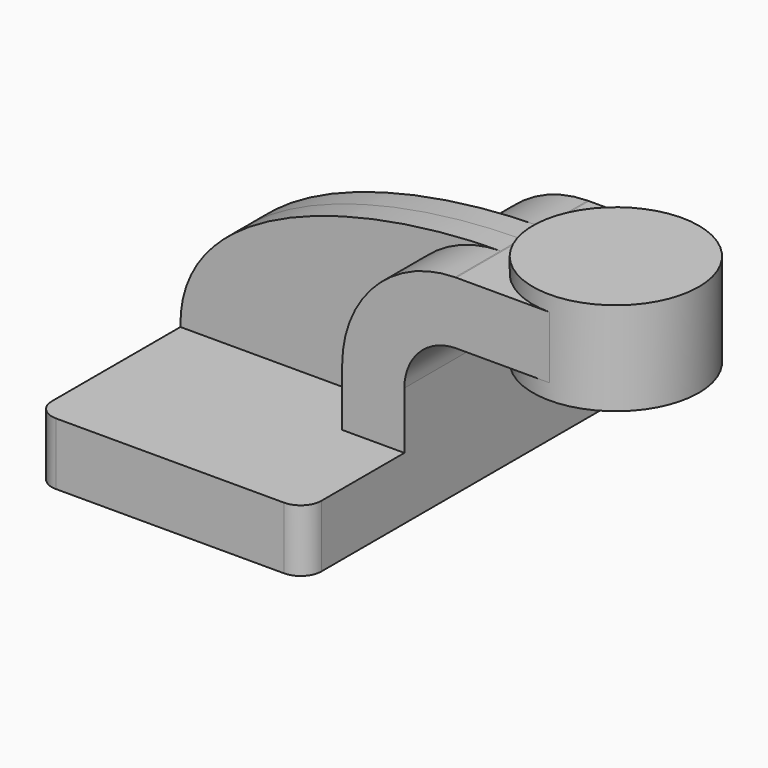
from build123d import *

# Parameters (mm, degrees)
F1_DEPTH = 63.5
F0_W     = 25.4
F0_H     = 19.05
F2_DEPTH = 25.4
F4_R     = 6.35
F5_DEPTH = 7.9375


with BuildPart() as f1:
    # F0 (on Front) → F1 (new body, symmetric)
    with BuildSketch(Plane.XZ):
        Polygon((41.275, -9.525), (41.275, 9.525), (22.225, 9.525), (-41.275, 9.525), (-41.275, -9.525), align=None)
    extrude(amount=F1_DEPTH, both=True)

    # F0 (on Front) → F2 (join, symmetric)
    with BuildSketch(Plane.XZ):
        with BuildLine():
            Line((22.225, 9.525), (41.275, 9.525))
            Line((41.275, 9.525), (41.275, 27.0002))
            ThreePointArc((41.275, 27.0002), (45.9246798487, 38.2255201513), (57.15, 42.8752))
            Line((57.15, 42.8752), (60.325, 42.8752))
            Line((60.325, 42.8752), (60.325, 61.9252))
            Line((60.325, 61.9252), (57.15, 61.9252))
            add(Edge.make_bspline(
                [(56.7889636958, 61.9233338483), (56.9093507324, 61.9240660215), (57.0296965137, 61.9246880569), (57.15, 61.9252)],
                knots=[111.215608545, 111.215608545, 111.215608545, 111.215608545, 111.5045361635, 111.5045361635, 111.5045361635, 111.5045361635], degree=3))
            ThreePointArc((56.7889636958, 61.9233338483), (32.3269782468, 51.567927124), (22.225, 27.0002))
            Line((22.225, 27.0002), (22.225, 9.525))
        make_face()
        with Locations((73.025, 52.4002)):
            Rectangle(F0_W, F0_H)
    extrude(amount=F2_DEPTH, both=True)

    # F0 (on Front) → F3 (revolve)
    with BuildSketch(Plane.XZ):
        Polygon((85.725, 61.9252), (85.725, 42.8752), (85.725, 38.1), (111.125, 38.1), (111.125, 66.675), (85.725, 66.675), align=None)
    revolve(axis=Axis((85.725, 0, 52.3875), (0, 0, 1)))

    # F4
    f4_edges = [f1.edges().sort_by_distance(p)[0] for p in [
        (41.275, -63.5, 0),
        (-41.275, -63.5, 0),
        (41.275, 63.5, 0),
        (-41.275, 63.5, 0),
    ]]
    fillet(f4_edges, radius=F4_R)

    # F0 (on Front) → F5 (join, symmetric)
    with BuildSketch(Plane.XZ):
        with BuildLine():
            Line((-41.275, 9.525), (22.225, 9.525))
            Line((22.225, 9.525), (22.225, 27.0002))
            ThreePointArc((22.225, 27.0002), (32.3269782468, 51.567927124), (56.7889636958, 61.9233338483))
            add(Edge.make_bspline(
                [(-41.275, 9.525), (-42.0038243378, 45.0408061819), (10.4489232116, 61.6415017024), (56.7889636958, 61.9233338483)],
                knots=[0, 0, 0, 0, 111.215608545, 111.215608545, 111.215608545, 111.215608545], degree=3))
        make_face()
    extrude(amount=F5_DEPTH, both=True)


solid = f1.part
